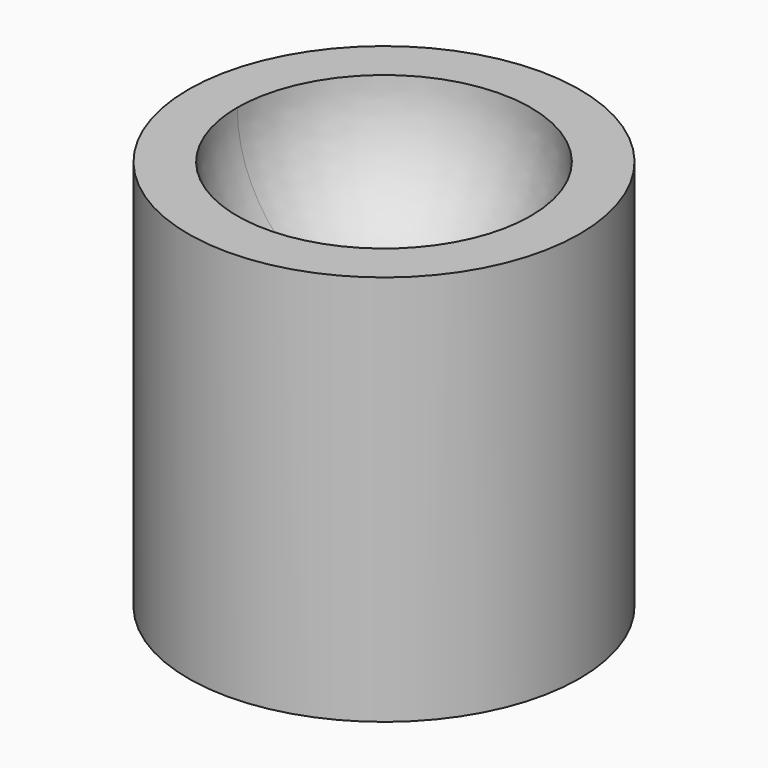
from build123d import *

# Parameters (mm, degrees)
F0_R     = 25.4
F1_DEPTH = 50.8
F3_ANGLE = -180


with BuildPart() as f1:
    # F0 (on Top) → F1 (new body)
    with BuildSketch(Plane.XY):
        Circle(F0_R)
    extrude(amount=F1_DEPTH)

    # F2 (on Front) → F3 (revolve, cut)
    with BuildSketch(Plane.XZ):
        with BuildLine():
            Line((0, 31.75), (0, 69.849997))
            ThreePointArc((0, 69.849997), (-19.050003, 50.799999), (0, 31.75))
        make_face()
    revolve(axis=Axis((0, 0, 50.799999), (0, 0, -1)), revolution_arc=F3_ANGLE, mode=Mode.SUBTRACT)

    # F2 (on Front) → F4 (revolve, cut)
    with BuildSketch(Plane.XZ):
        with BuildLine():
            Line((0, 31.75), (0, 69.849997))
            ThreePointArc((0, 69.849997), (-19.050003, 50.799999), (0, 31.75))
        make_face()
    revolve(axis=Axis((0, 0, 0), (0, 0, -1)), mode=Mode.SUBTRACT)


solid = f1.part
